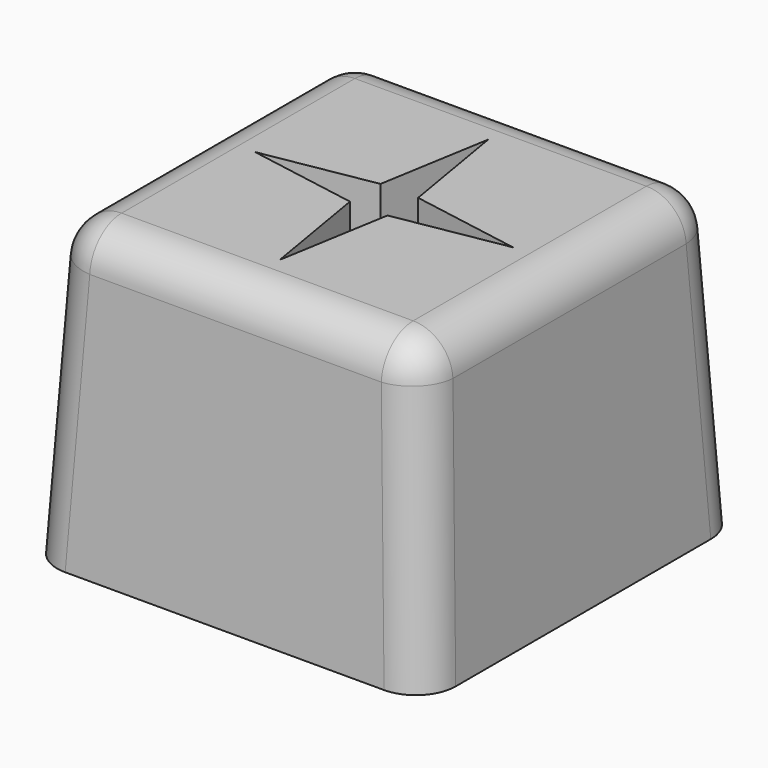
from build123d import *

# Parameters (mm, degrees)
F0_W     = 20
F0_H     = 20
F1_DEPTH = 15
F1_TAPER = 3
F2_R     = 2
F4_DEPTH = 3


with BuildPart() as f1:
    # F0 (on Top) → F1 (new body)
    with BuildSketch(Plane.XY):
        with Locations((1.8707364798, -3.1114496091)):
            Rectangle(F0_W, F0_H)
    extrude(amount=F1_DEPTH, taper=F1_TAPER)

    # F2
    f2_edges = [f1.edges().sort_by_distance(p)[0] for p in [
        (-7.736205, 6.495492, 7.5),
        (1.870736, 6.102434, 15),
        (11.477678, 6.495492, 7.500009),
        (11.08462, -3.11145, 15),
        (11.477678, -12.718391, 7.5),
        (1.870736, -12.325333, 15),
        (-7.343147, -3.11145, 15),
        (-7.736205, -12.718391, 7.5),
    ]]
    fillet(f2_edges, radius=F2_R)

    # F3 (on face) → F4 (cut)
    with BuildSketch(Plane.XY.offset(15)):
        Polygon((2.8135806206, -2.1512166131), (1.8707364798, 3.426121315), (0.927892339, -2.1512166131), (-4.6021803282, -3.1114496091), (0.927892339, -4.071682605), (1.8707364798, -9.6490205332), (2.8135806206, -4.071682605), (8.3436532877, -3.1114496091), align=None)
    extrude(amount=-F4_DEPTH, mode=Mode.SUBTRACT)


solid = f1.part
